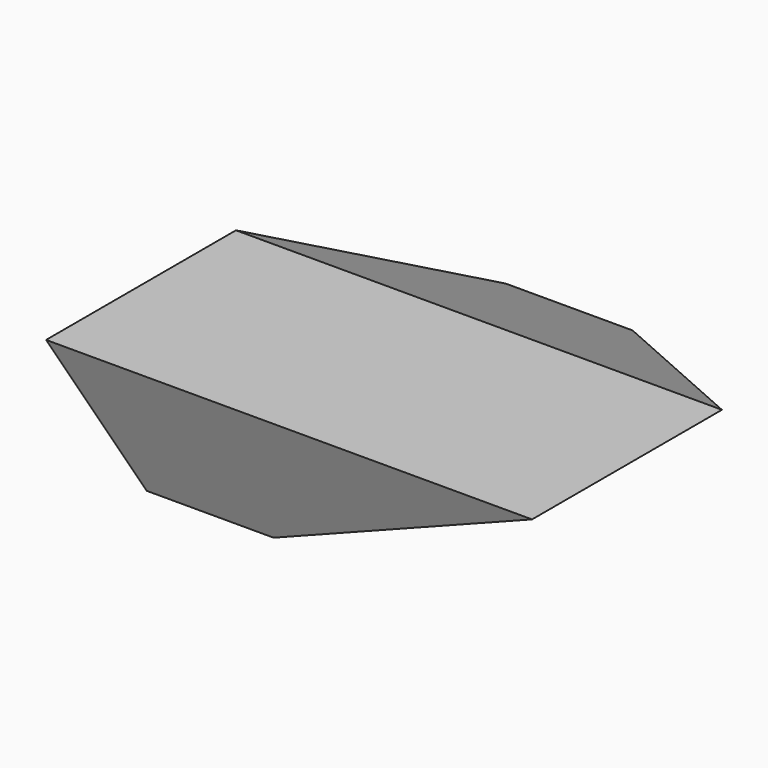
from build123d import *

# Parameters (mm, degrees)
F2_W = 92.133355
F2_H = 44.991698
F0_W = 24.054546
F0_H = 85.093085


with BuildPart() as f3:
    # F2 (on offset) → F3 section 0
    with BuildSketch(Plane.XY.offset(25)):
        with Locations((10.149783, -22.495849)):
            Rectangle(F2_W, F2_H)
    # F0 (on Top) → F3 section 1
    with BuildSketch(Plane.XY):
        with Locations((-12.027273, 6.568195)):
            Rectangle(F0_W, F0_H)
    loft()


solid = f3.part
